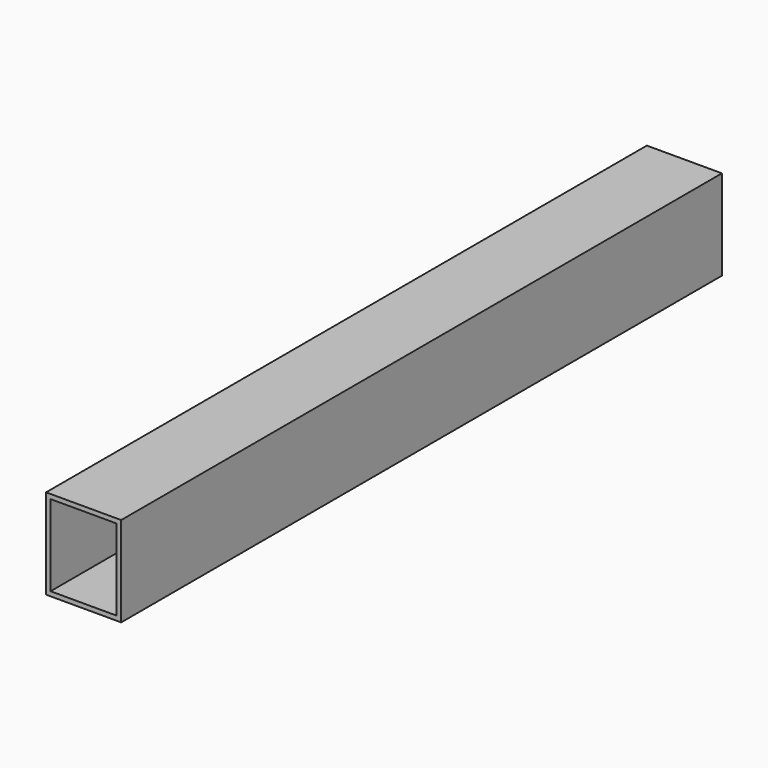
from build123d import *

# Parameters (mm, degrees)
SKETCH_W   = 50
SKETCH_H   = 60
SKETCH_W_2 = 44
SKETCH_H_2 = 54
PAD_DEPTH  = 500


with BuildPart() as part:
    # Sketch → Pad (new body)
    with BuildSketch(Plane.XZ):
        with Locations((25, 30)):
            Rectangle(SKETCH_W, SKETCH_H)
        with Locations((25, 30)):
            Rectangle(SKETCH_W_2, SKETCH_H_2, mode=Mode.SUBTRACT)
    extrude(amount=PAD_DEPTH)


solid = part.part
